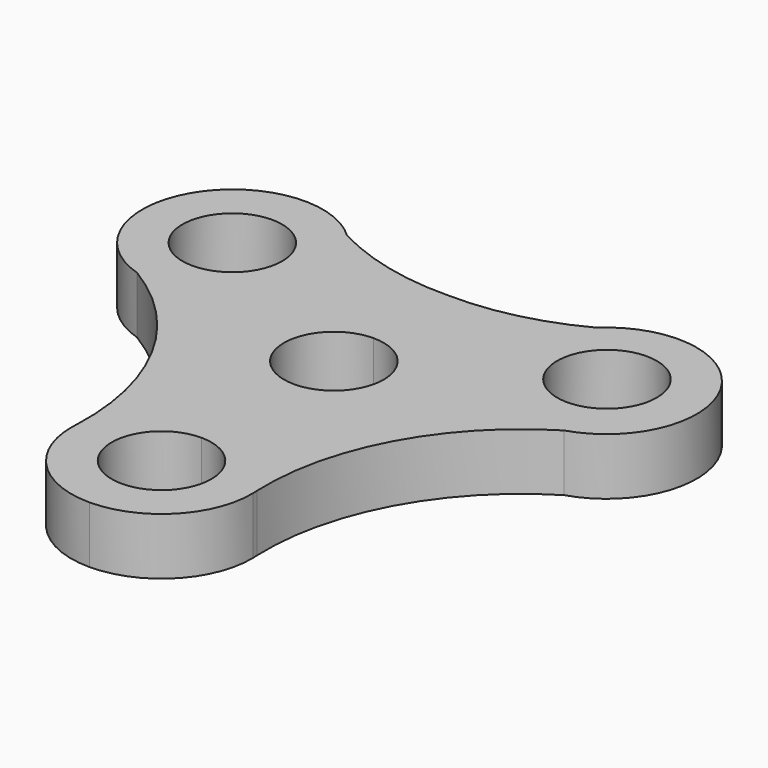
from build123d import *

# Parameters (mm, degrees)
F0_R     = 17.5
F1_DEPTH = 20


with BuildPart() as f1:
    # F0 (on Top) → F1 (new body)
    with BuildSketch(Plane.XY):
        with BuildLine():
            ThreePointArc((43.859541, 60.599254), (22.598263, 52.556403), (0, 50.097152))
            ThreePointArc((0, 50.097152), (-22.598263, 52.556403), (-43.859541, 60.599254))
            ThreePointArc((-43.859541, 60.599254), (-70.26393, 68.944434), (-93.143686, 53.344736))
            ThreePointArc((-93.143686, 53.344736), (-95.11584, 25.953647), (-74.951102, 7.311103))
            ThreePointArc((-74.951102, 7.311103), (-42.286686, -27.017794), (-31.586796, -73.180004))
            ThreePointArc((-31.586796, -73.180004), (-31.627345, -74.10569), (-31.677422, -75.03091))
            ThreePointArc((-31.677422, -75.03091), (-22.622972, -97.836436), (0, -107.337818))
            ThreePointArc((0, -107.337818), (22.622972, -97.836436), (31.677422, -75.03091))
            ThreePointArc((31.677422, -75.03091), (31.627345, -74.10569), (31.586796, -73.180004))
            ThreePointArc((31.586796, -73.180004), (42.286686, -27.017794), (74.951102, 7.311103))
            ThreePointArc((74.951102, 7.311103), (95.11584, 25.953647), (93.143687, 53.344735))
            ThreePointArc((93.143687, 53.344735), (70.263931, 68.944434), (43.859541, 60.599254))
        make_face()
        with BuildLine():
            ThreePointArc((0, -58.154263), (12.374369, -63.279894), (17.5, -75.654263))
            ThreePointArc((17.5, -75.654263), (-12.374369, -88.028632), (0, -58.154263))
        make_face(mode=Mode.SUBTRACT)
        with Locations((-65.686116, 37.535339)):
            Circle(F0_R, mode=Mode.SUBTRACT)
        with BuildLine():
            ThreePointArc((17.5, 0), (12.374369, -12.374369), (0, -17.5))
            ThreePointArc((0, -17.5), (-17.5, 0), (0, 17.5))
            ThreePointArc((0, 17.5), (12.374369, 12.374369), (17.5, 0))
        make_face(mode=Mode.SUBTRACT)
        with Locations((65.179423, 38.408467)):
            Circle(F0_R, mode=Mode.SUBTRACT)
    extrude(amount=F1_DEPTH)


solid = f1.part
